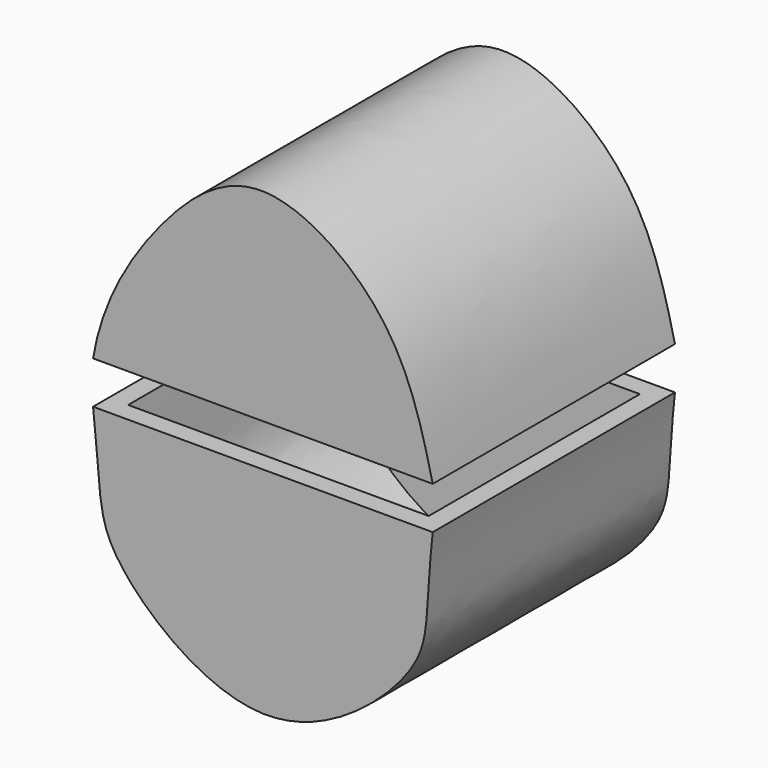
from build123d import *

# Parameters (mm, degrees)
F1_DEPTH = 39.624
F2_T     = -2.54
F2_2_T   = -2.54


with BuildPart() as f1:
    # F0 (on Front) → F1 (new body)
    with BuildSketch(Plane.XZ):
        with BuildLine():
            add(Edge.make_bspline(
                [(-54.49122563, 22.2569797188), (-53.3433780074, 29.3584354222), (-46.4912814239, 41.1322395576), (-32.9818176316, 52.4543551371), (-14.9751421965, 40.641671761), (-11.7053734139, 29.3584372848), (-10.04122563, 22.2569797188)],
                knots=[0, 0, 0, 0, 0.2681940171, 0.4954260284, 0.7412506951, 1, 1, 1, 1], degree=3))
            Line((-54.49122563, 22.2569797188), (-10.04122563, 22.2569797188))
        make_face()
    extrude(amount=F1_DEPTH)

    # F2
    f2_openings = [f1.faces().sort_by_distance(p)[0] for p in [
        (-32.266226, -19.812, 22.25698),
    ]]
    offset(amount=F2_T, openings=f2_openings)


with BuildPart() as f1b:
    # F0 (on Front) → F1, piece 2 (new body)
    with BuildSketch(Plane.XZ):
        with BuildLine():
            Line((-10.04122563, 16.6927333921), (-54.49122563, 16.6927333921))
            add(Edge.make_bspline(
                [(-54.49122563, 16.6927333921), (-53.3957116168, 6.9922352266), (-54.7989052527, 0.9783048716), (-31.6538874769, -18.1285035146), (-9.1781074636, 1.1295111725), (-11.1197696151, 6.7916792308), (-10.04122563, 16.6927333921)],
                knots=[0, 0, 0, 0, 0.2333931282, 0.502195796, 0.7672225402, 1, 1, 1, 1], degree=3))
        make_face()
    extrude(amount=F1_DEPTH)

    # F2#2
    f2_2_openings = [f1b.faces().sort_by_distance(p)[0] for p in [
        (-32.266226, -19.812, 16.692733),
    ]]
    offset(amount=F2_2_T, openings=f2_2_openings)


solid = Compound([f1.part, f1b.part])
